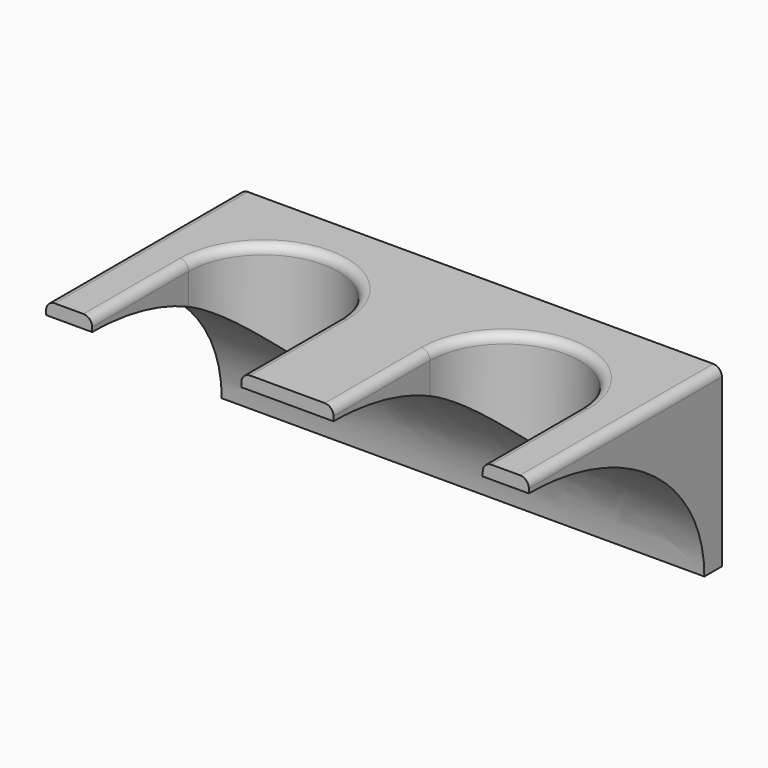
from build123d import *

# Parameters (mm, degrees)
F0_W     = 10.5
F0_H     = 27.5
F1_DEPTH = 40
F3_DEPTH = 120.3
F4_W     = 17.5
F4_H     = 17
F5_DEPTH = 2.5
F6_R     = 2


with BuildPart() as f1:
    # F0 (on Top) → F1 (new body)
    with BuildSketch(Plane.XY):
        with Locations((-49.75, -13.75)):
            Rectangle(F0_W, F0_H)
        with BuildLine():
            Line((55, 0), (55, 27.5))
            Line((55, 27.5), (-55, 27.5))
            Line((-55, 27.5), (-55, 0))
            Line((-55, 0), (-44.5, 0))
            ThreePointArc((-44.5, 0), (-27.5, 17), (-10.5, 0))
            Line((-10.5, 0), (0, 0))
            Line((0, 0), (10.5, 0))
            ThreePointArc((10.5, 0), (27.5, 17), (44.5, 0))
            Line((44.5, 0), (55, 0))
        make_face()
        Polygon((10.5, -27.5), (10.5, 0), (0, 0), (-10.5, 0), (-10.5, -27.5), align=None)
        with Locations((49.75, -13.75)):
            Rectangle(F0_W, F0_H)
    extrude(amount=F1_DEPTH)

    # F2 (on face) → F3 (cut)
    with BuildSketch(Plane(origin=(-55, 0, 0), x_dir=(0, -1, 0), z_dir=(-1, 0, 0))):
        with BuildLine():
            add(Edge.make_bspline(
                [(27.5, 37), (-22.500001, 37), (-22.500001, 0)],
                knots=[4.712389, 4.712389, 4.712389, 6.283185, 6.283185, 6.283185], degree=2, weights=[1, 0.707107, 1]))
            Line((-22.500001, 0), (27.5, 0))
            Line((27.5, 0), (27.5, 37))
        make_face()
    extrude(amount=-F3_DEPTH, mode=Mode.SUBTRACT)

    # F4 (on face) → F5 (cut)
    with BuildSketch(Plane(origin=(0, 27.5, 0), x_dir=(-1, 0, 0), z_dir=(0, 1, 0))):
        with Locations((-36.25, 30)):
            Rectangle(F4_W, F4_H)
        with Locations((-18.75, 30)):
            Rectangle(F4_W, F4_H)
        with Locations((16.651222, 30)):
            Rectangle(F4_W, F4_H)
        with Locations((34.151222, 30)):
            Rectangle(F4_W, F4_H)
    extrude(amount=-F5_DEPTH, mode=Mode.SUBTRACT)

    # F6
    f6_edges = [f1.edges().sort_by_distance(p)[0] for p in [
        (-44.5, -13.75, 40),
        (10.5, -13.75, 40),
        (55, 0, 40),
        (-55, 0, 40),
    ]]
    fillet(f6_edges, radius=F6_R)


solid = f1.part
